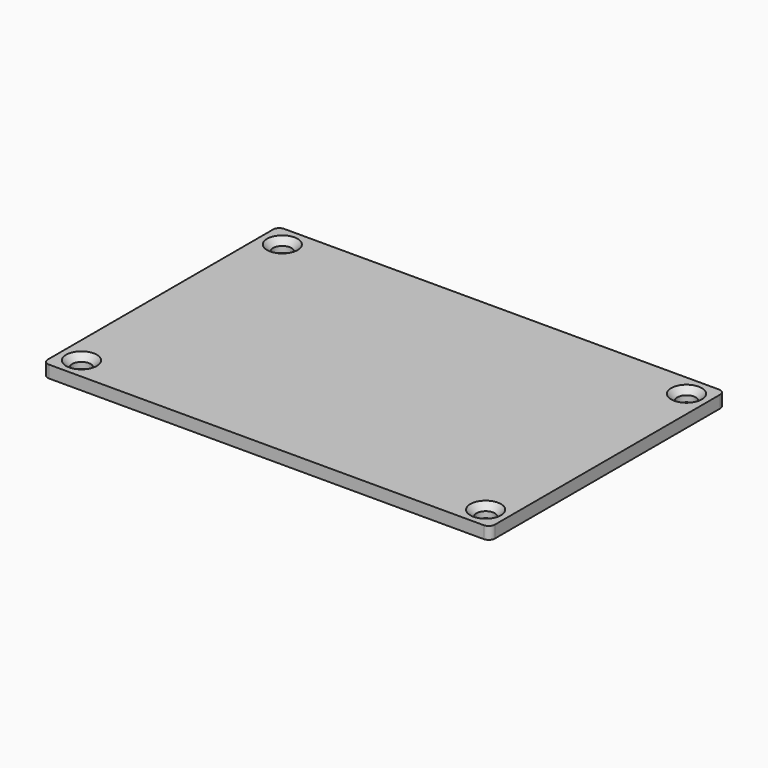
from build123d import *

# Parameters (mm, degrees)
SKETCH_W        = 73
SKETCH_H        = 48
PAD_DEPTH       = 2
FILLET_R        = 1
FILLET001_R     = 1
FILLET002_R     = 1
FILLET003_R     = 1
SKETCH002_R     = 1.5
POCKET_DEPTH    = 5
SKETCH003_R     = 1.5
POCKET001_DEPTH = 5
SKETCH004_R     = 1.5
POCKET002_DEPTH = 5
SKETCH005_R     = 1.5
POCKET003_DEPTH = 5
CHAMFER_SIZE    = 1
CHAMFER001_SIZE = 1
CHAMFER002_SIZE = 1
CHAMFER003_SIZE = 1


with BuildPart() as part:
    # Sketch → Pad (new body)
    with BuildSketch(Plane.XY):
        with Locations((36.5, 24)):
            Rectangle(SKETCH_W, SKETCH_H)
    extrude(amount=PAD_DEPTH)

    # Fillet
    fillet_edges = [part.edges().sort_by_distance(p)[0] for p in [
        (0, 0, 1),
    ]]
    fillet(fillet_edges, radius=FILLET_R)

    # Fillet001
    fillet001_edges = [part.edges().sort_by_distance(p)[0] for p in [
        (73, 0, 1),
    ]]
    fillet(fillet001_edges, radius=FILLET001_R)

    # Fillet002
    fillet002_edges = [part.edges().sort_by_distance(p)[0] for p in [
        (73, 48, 1),
    ]]
    fillet(fillet002_edges, radius=FILLET002_R)

    # Fillet003
    fillet003_edges = [part.edges().sort_by_distance(p)[0] for p in [
        (0, 48, 1),
    ]]
    fillet(fillet003_edges, radius=FILLET003_R)

    # Sketch002 (on Face10 of Fillet003) → Pocket (cut)
    with BuildSketch(Plane.XY.offset(2)):
        with Locations((3.5, 3.5)):
            Circle(SKETCH002_R)
    extrude(amount=-POCKET_DEPTH, mode=Mode.SUBTRACT)

    # Sketch003 (on Face11 of Pocket) → Pocket001 (cut)
    with BuildSketch(Plane.XY.offset(2)):
        with Locations((3.5, 44.5)):
            Circle(SKETCH003_R)
    extrude(amount=-POCKET001_DEPTH, mode=Mode.SUBTRACT)

    # Sketch004 (on Face12 of Pocket001) → Pocket002 (cut)
    with BuildSketch(Plane.XY.offset(2)):
        with Locations((69.5, 44.5)):
            Circle(SKETCH004_R)
    extrude(amount=-POCKET002_DEPTH, mode=Mode.SUBTRACT)

    # Sketch005 (on Face13 of Pocket002) → Pocket003 (cut)
    with BuildSketch(Plane.XY.offset(2)):
        with Locations((69.5, 3.5)):
            Circle(SKETCH005_R)
    extrude(amount=-POCKET003_DEPTH, mode=Mode.SUBTRACT)

    # Chamfer
    chamfer_edges = [part.edges().sort_by_distance(p)[0] for p in [
        (68, 3.5, 2),
    ]]
    chamfer(chamfer_edges, length=CHAMFER_SIZE)

    # Chamfer001
    chamfer001_edges = [part.edges().sort_by_distance(p)[0] for p in [
        (2, 44.5, 2),
    ]]
    chamfer(chamfer001_edges, length=CHAMFER001_SIZE)

    # Chamfer002
    chamfer002_edges = [part.edges().sort_by_distance(p)[0] for p in [
        (68, 44.5, 2),
    ]]
    chamfer(chamfer002_edges, length=CHAMFER002_SIZE)

    # Chamfer003
    chamfer003_edges = [part.edges().sort_by_distance(p)[0] for p in [
        (2, 3.5, 2),
    ]]
    chamfer(chamfer003_edges, length=CHAMFER003_SIZE)


solid = part.part
